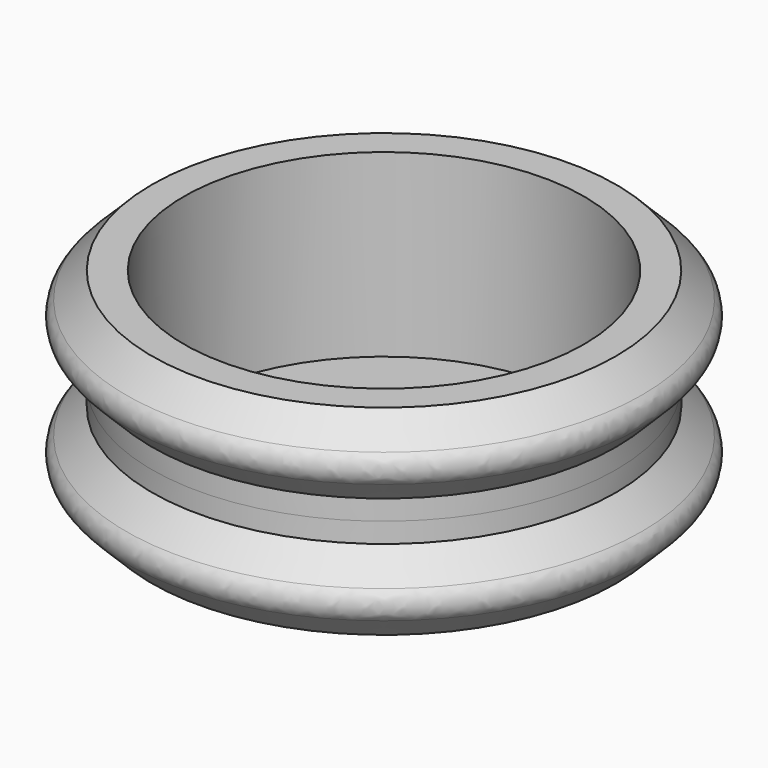
from build123d import *

# Parameters (mm, degrees)
FILLET_R           = 0.5
SKETCH002_R        = 5
POCKET_DEPTH       = 4.5
SKETCH003_R        = 3.1
POCKET008003_DEPTH = 5.001


with BuildPart() as fillet_body:
    # Sketch001 → Revolution (revolve)
    with BuildSketch(Plane.XZ):
        Polygon((0, -2.5), (5.8, -2.5), (6.8, -1.5), (5.8, -0.5), (5.8, 0), (0, 0), align=None)
    revolve(axis=Axis((0, 0, 0), (0, 0, 1)))

    # Fillet
    fillet_edges = [fillet_body.edges().sort_by_distance(p)[0] for p in [
        (-6.8, 0, -1.5),
    ]]
    fillet(fillet_edges, radius=FILLET_R)


with BuildPart() as part_mirroring:
    # Part__Mirroring: instance of Fillet body
    add(fillet_body.part.mirror(Plane(origin=(0, 0, 0), x_dir=(0, 1, 0), z_dir=(0, 0, 1))))


with BuildPart() as bolthead001:
    # Fusion base: copy of Fillet body
    add(fillet_body.part)

    # Fusion: union Part__Mirroring
    add(part_mirroring.part)

    # Sketch002 → Pocket (cut)
    with BuildSketch(Plane.XY.offset(2.5)):
        Circle(SKETCH002_R)
    extrude(amount=-POCKET_DEPTH, mode=Mode.SUBTRACT)

    # Sketch003 → Pocket008003 (cut, through all)
    with BuildSketch(Plane(origin=(0, 0, -2.5), x_dir=(1, 0, 0), z_dir=(0, 0, -1))):
        Circle(SKETCH003_R)
    extrude(amount=-POCKET008003_DEPTH, mode=Mode.SUBTRACT)


solid = bolthead001.part
